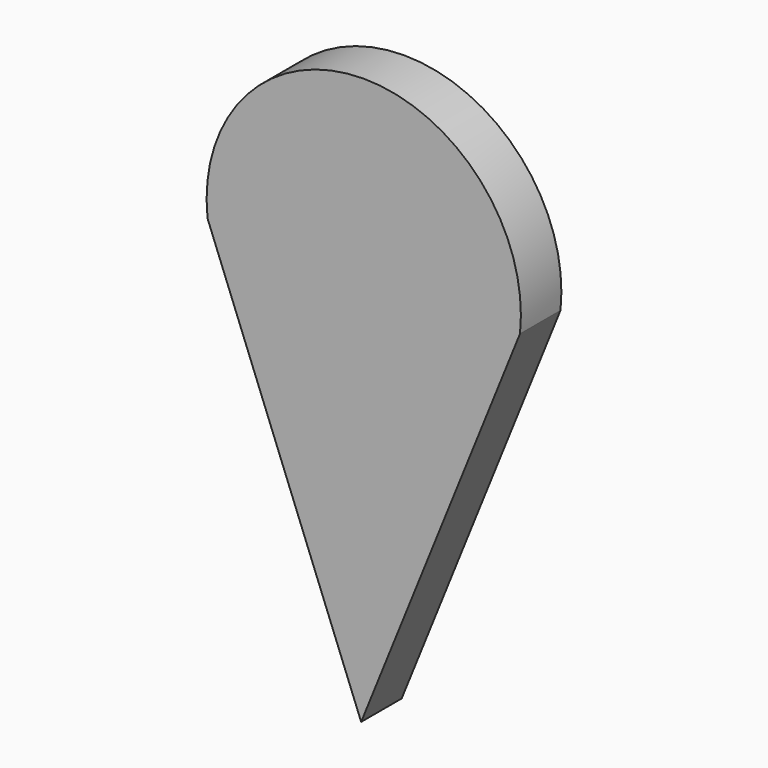
from build123d import *

# Parameters (mm, degrees)
F1_DEPTH = 2.54


with BuildPart() as f1:
    # F0 (on Front) → F1 (new body)
    with BuildSketch(Plane.XZ):
        Polygon((-7.709032, 7.068952), (0, -12.668857), (7.969932, 7.068952), align=None)
        with BuildLine():
            ThreePointArc((7.969932, 7.068952), (0.13045, 15.782595), (-7.709032, 7.068952))
            Line((-7.709032, 7.068952), (7.969932, 7.068952))
        make_face()
    extrude(amount=F1_DEPTH)


solid = f1.part
